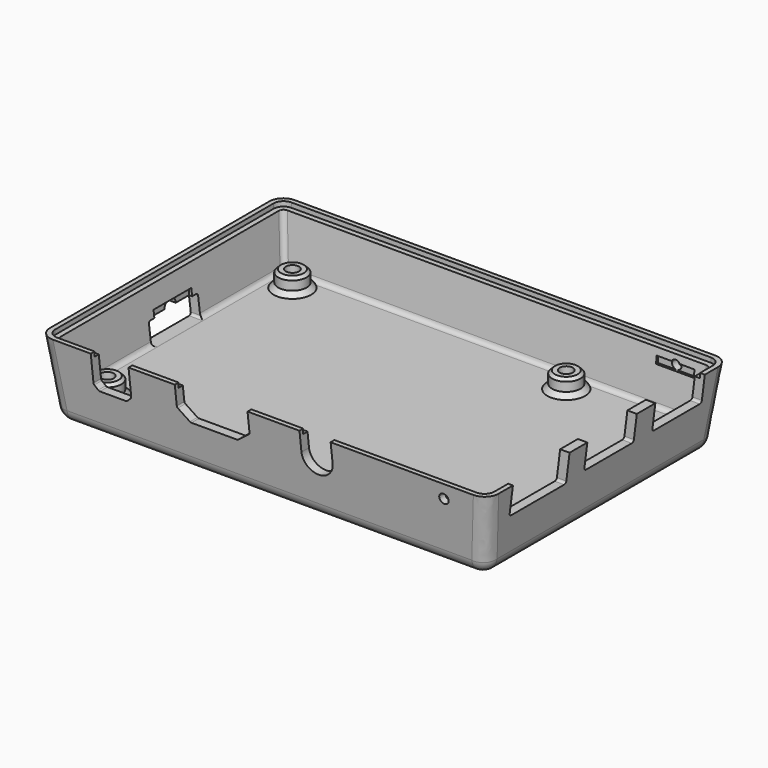
from build123d import *

# Parameters (mm, degrees)
SKETCH_W             = 95
SKETCH_H             = 64
SKETCH001_W          = 91
SKETCH001_H          = 60
SKETCH002_W          = 91
SKETCH002_H          = 60
SKETCH003_W          = 88.13
SKETCH003_H          = 57.13
POCKET_DEPTH         = 1
FILLET_R             = 1
POCKET001_DEPTH      = 47.501
POCKET002_DEPTH      = 47.501
POCKET003_DEPTH      = 32.001
SKETCH008_R          = 3
PAD_DEPTH            = 3.5
SKETCH010_R          = 1.4
HOLE_DEPTH           = 6
HOLE_TIPS_R          = 1.4
SKETCH009_W          = 2.5
SKETCH009_H          = 2.5
POCKET004_DEPTH      = 5
SKETCH011_W          = 60
SKETCH011_H          = 1.5
POCKET005_DEPTH      = 4
SKETCH012_R          = 1
POCKET006_DEPTH      = 32.001
POCKET006_DEPTH_BACK = 32.001
POCKET007_DEPTH      = 2.5
POCKET008_DEPTH      = 1.5
FILLET001_R          = 2.1
FILLET002_R          = 3
CHAMFER_SIZE         = 1
CHAMFER001_SIZE      = 0.6
POCKET013_DEPTH      = 2.5
POCKET014_DEPTH      = 1.5


with BuildPart() as part:
    # Sketch → AdditiveLoft section 0
    with BuildSketch(Plane.XY.offset(16)):
        Rectangle(SKETCH_W, SKETCH_H)
    # Sketch001 → AdditiveLoft section 1
    with BuildSketch(Plane.XY):
        Rectangle(SKETCH001_W, SKETCH001_H)
    loft(ruled=True)

    # Sketch002 → SubtractiveLoft section 0
    with BuildSketch(Plane.XY.offset(16)):
        Rectangle(SKETCH002_W, SKETCH002_H)
    # Sketch003 → SubtractiveLoft section 1
    with BuildSketch(Plane.XY.offset(4.5)):
        Rectangle(SKETCH003_W, SKETCH003_H)
    loft(ruled=True, mode=Mode.SUBTRACT)

    # Sketch004 → Pocket (cut)
    with BuildSketch(Plane.XY.offset(16)):
        Polygon((-46.5, -31), (-46.5, 31), (46.5, 31), (46.5, 22.5), (40.5, 22.5), (40.5, -22.5), (46.5, -22.5), (46.5, -31), align=None)
    extrude(amount=-POCKET_DEPTH, mode=Mode.SUBTRACT)

    # Fillet
    fillet_edges = [part.edges().sort_by_distance(p)[0] for p in [
        (-44.720109, 29.220109, 9.75),
        (-44.065, 0, 4.5),
        (0, 28.565, 4.5),
        (44.720109, 29.220109, 9.75),
        (44.065, 0, 4.5),
        (44.720109, -29.220109, 9.75),
        (0, -28.565, 4.5),
        (-44.720109, -29.220109, 9.75),
    ]]
    fillet(fillet_edges, radius=FILLET_R)

    # Sketch005 → Pocket001 (cut, through all)
    with BuildSketch(Plane.YZ):
        with BuildLine():
            Line((-25.25, 17), (-10.25, 17))
            Line((-10.25, 17), (-10.25, 10.5))
            ThreePointArc((-10.75, 10), (-10.396447, 10.146447), (-10.25, 10.5))
            Line((-10.75, 10), (-24.75, 10))
            ThreePointArc((-25.25, 10.5), (-25.103553, 10.146447), (-24.75, 10))
            Line((-25.25, 10.5), (-25.25, 17))
        make_face()
        with BuildLine():
            Line((-5.55, 17), (7.55, 17))
            Line((7.55, 17), (7.55, 11))
            ThreePointArc((7.05, 10.5), (7.403553, 10.646447), (7.55, 11))
            Line((7.05, 10.5), (-5.05, 10.5))
            ThreePointArc((-5.55, 11), (-5.403553, 10.646447), (-5.05, 10.5))
            Line((-5.55, 11), (-5.55, 17))
        make_face()
        with BuildLine():
            Line((12.45, 17), (25.55, 17))
            Line((25.55, 17), (25.55, 11))
            ThreePointArc((25.05, 10.5), (25.403553, 10.646447), (25.55, 11))
            Line((25.05, 10.5), (12.95, 10.5))
            ThreePointArc((12.45, 11), (12.596447, 10.646447), (12.95, 10.5))
            Line((12.45, 11), (12.45, 17))
        make_face()
    extrude(amount=POCKET001_DEPTH, mode=Mode.SUBTRACT)

    # Sketch006 → Pocket002 (cut, through all)
    with BuildSketch(Plane.YZ):
        with BuildLine():
            Line((6, 9), (1.5, 9))
            ThreePointArc((1.5, 9), (0, 10.5), (-1.5, 9))
            Line((-1.5, 9), (-6, 9))
            ThreePointArc((-6, 9), (-6.353553, 8.853553), (-6.5, 8.5))
            Line((-6.5, 8.5), (-6.5, 5.001))
            ThreePointArc((-6.5, 5.001), (-6.353553, 4.647447), (-6, 4.501))
            Line((-6, 4.501), (6, 4.501))
            ThreePointArc((6, 4.501), (6.353553, 4.647447), (6.5, 5.001))
            Line((6.5, 5.001), (6.5, 8.5))
            ThreePointArc((6.5, 8.5), (6.353553, 8.853553), (6, 9))
        make_face()
    extrude(amount=-POCKET002_DEPTH, mode=Mode.SUBTRACT)

    # Sketch007 → Pocket003 (cut, through all)
    with BuildSketch(Plane.XZ):
        with BuildLine():
            Line((-18.7, 17), (-3.3, 17))
            Line((-3.3, 17), (-3.3, 11.853337))
            ThreePointArc((-3.492169, 11.459332), (-3.350603, 11.634152), (-3.3, 11.853337))
            Line((-3.492169, 11.459332), (-5.864333, 9.605995))
            ThreePointArc((-6.172164, 9.5), (-6.00938, 9.527241), (-5.864333, 9.605995))
            Line((-6.172164, 9.5), (-15.827836, 9.5))
            ThreePointArc((-16.135667, 9.605995), (-15.99062, 9.527241), (-15.827836, 9.5))
            Line((-18.507831, 11.459332), (-16.135667, 9.605995))
            ThreePointArc((-18.7, 11.853337), (-18.649397, 11.634152), (-18.507831, 11.459332))
            Line((-18.7, 11.853337), (-18.7, 17))
        make_face()
        with BuildLine():
            ThreePointArc((7.7, 11.8), (11, 8.5), (14.3, 11.8))
            Line((14.3, 11.8), (14.3, 17))
            Line((14.3, 17), (7.7, 17))
            Line((7.7, 11.8), (7.7, 17))
        make_face()
        with BuildLine():
            Line((-36.5, 17), (-28.5, 17))
            Line((-28.5, 17), (-28.5, 10.25))
            ThreePointArc((-28.646447, 9.896447), (-28.53806, 10.058658), (-28.5, 10.25))
            Line((-29.396447, 9.146447), (-28.646447, 9.896447))
            ThreePointArc((-29.75, 9), (-29.558658, 9.03806), (-29.396447, 9.146447))
            Line((-29.75, 9), (-35.25, 9))
            ThreePointArc((-35.603553, 9.146447), (-35.441342, 9.03806), (-35.25, 9))
            Line((-36.353553, 9.896447), (-35.603553, 9.146447))
            ThreePointArc((-36.5, 10.25), (-36.46194, 10.058658), (-36.353553, 9.896447))
            Line((-36.5, 10.25), (-36.5, 17))
        make_face()
    extrude(amount=POCKET003_DEPTH, mode=Mode.SUBTRACT)

    # Sketch008 → Pad (join)
    with BuildSketch(Plane.XY.offset(4.5)):
        with Locations((-39, -24.5)):
            Circle(SKETCH008_R)
        with Locations((19, -24.5)):
            Circle(SKETCH008_R)
        with Locations((-39, 24.5)):
            Circle(SKETCH008_R)
        with Locations((19, 24.5)):
            Circle(SKETCH008_R)
    extrude(amount=PAD_DEPTH)

    # Sketch010 → Hole (cut)
    with BuildSketch(Plane.XY.offset(8)):
        with Locations((-39, -24.5)):
            Circle(SKETCH010_R)
        with Locations((19, -24.5)):
            Circle(SKETCH010_R)
        with Locations((-39, 24.5)):
            Circle(SKETCH010_R)
        with Locations((19, 24.5)):
            Circle(SKETCH010_R)
    extrude(amount=-HOLE_DEPTH, mode=Mode.SUBTRACT)

    # Hole tips → Hole tip 1 section 0
    with BuildSketch(Plane.XY.offset(2), mode=Mode.PRIVATE) as hole_tip_1_s0:
        with Locations((-39, -24.5)):
            Circle(HOLE_TIPS_R)
    loft([hole_tip_1_s0.sketch, Vertex(-39, -24.5, 1.158795)], mode=Mode.SUBTRACT)

    # Hole tips → Hole tip 2 section 0
    with BuildSketch(Plane.XY.offset(2), mode=Mode.PRIVATE) as hole_tip_2_s0:
        with Locations((19, -24.5)):
            Circle(HOLE_TIPS_R)
    loft([hole_tip_2_s0.sketch, Vertex(19, -24.5, 1.158795)], mode=Mode.SUBTRACT)

    # Hole tips → Hole tip 3 section 0
    with BuildSketch(Plane.XY.offset(2), mode=Mode.PRIVATE) as hole_tip_3_s0:
        with Locations((-39, 24.5)):
            Circle(HOLE_TIPS_R)
    loft([hole_tip_3_s0.sketch, Vertex(-39, 24.5, 1.158795)], mode=Mode.SUBTRACT)

    # Hole tips → Hole tip 4 section 0
    with BuildSketch(Plane.XY.offset(2), mode=Mode.PRIVATE) as hole_tip_4_s0:
        with Locations((19, 24.5)):
            Circle(HOLE_TIPS_R)
    loft([hole_tip_4_s0.sketch, Vertex(19, 24.5, 1.158795)], mode=Mode.SUBTRACT)

    # Sketch009 → Pocket004 (cut, symmetric)
    with BuildSketch(Plane.XZ):
        with Locations((-44.05, 9.25)):
            Rectangle(SKETCH009_W, SKETCH009_H)
    extrude(amount=POCKET004_DEPTH, both=True, mode=Mode.SUBTRACT)

    # Sketch011 → Pocket005 (cut, symmetric)
    with BuildSketch(Plane.YZ.offset(38)):
        with Locations((0, 12.75)):
            Rectangle(SKETCH011_W, SKETCH011_H)
    extrude(amount=POCKET005_DEPTH, both=True, mode=Mode.SUBTRACT)

    # Sketch012 → Pocket006 (cut, two sides)
    with BuildSketch(Plane.XZ) as pocket006_sk:
        with Locations((38, 13)):
            Circle(SKETCH012_R)
    extrude(amount=-POCKET006_DEPTH, mode=Mode.SUBTRACT)
    extrude(pocket006_sk.sketch, amount=POCKET006_DEPTH_BACK, mode=Mode.SUBTRACT)

    # Sketch013 → Pocket007 (cut)
    with BuildSketch(Plane.XY.offset(1.2)):
        with BuildLine():
            ThreePointArc((-4, 24), (-8, 20), (-4, 16))
            Line((-4, 16), (4, 16))
            ThreePointArc((4, 16), (8, 20), (4, 24))
            Line((4, 24), (-4, 24))
        make_face()
        with BuildLine():
            ThreePointArc((-4, -16), (-8, -20), (-4, -24))
            Line((-4, -24), (4, -24))
            ThreePointArc((4, -24), (8, -20), (4, -16))
            Line((4, -16), (-4, -16))
        make_face()
    extrude(amount=POCKET007_DEPTH, mode=Mode.SUBTRACT)

    # Sketch014 → Pocket008 (cut)
    with BuildSketch(Plane.XY):
        with BuildLine():
            ThreePointArc((4, 16), (8, 20), (4, 24))
            Line((4, 24), (0, 24))
            Line((0, 24), (0, 21.8))
            Line((0, 21.8), (-4, 21.8))
            ThreePointArc((-4, 21.8), (-5.8, 20), (-4, 18.2))
            Line((-4, 18.2), (0, 18.2))
            Line((0, 18.2), (0, 16))
            Line((0, 16), (4, 16))
        make_face()
        with BuildLine():
            ThreePointArc((4, -24), (8, -20), (4, -16))
            Line((0, -16), (4, -16))
            Line((0, -18.2), (0, -16))
            Line((-4, -18.2), (0, -18.2))
            ThreePointArc((-4, -18.2), (-5.8, -20), (-4, -21.8))
            Line((-4, -21.8), (0, -21.8))
            Line((0, -21.8), (0, -24))
            Line((0, -24), (4, -24))
        make_face()
    extrude(amount=POCKET008_DEPTH, mode=Mode.SUBTRACT)

    # Fillet001
    fillet001_edges = [part.edges().sort_by_distance(p)[0] for p in [
        (-46.5, -31, 15.5),
        (-46.5, 31, 15.5),
        (46.5, 31, 15.5),
        (46.5, -31, 15.5),
    ]]
    fillet(fillet001_edges, radius=FILLET001_R)

    # Fillet002
    fillet002_edges = [part.edges().sort_by_distance(p)[0] for p in [
        (-46.5, -31, 8),
        (-45.5, 0, 0),
        (-46.5, 31, 8),
        (0, -30, 0),
        (0, 30, 0),
        (46.5, -31, 8),
        (45.5, 0, 0),
        (46.5, 31, 8),
    ]]
    fillet(fillet002_edges, radius=FILLET002_R)

    # Chamfer
    chamfer_edges = [part.edges().sort_by_distance(p)[0] for p in [
        (-42, 24.5, 4.5),
        (16, 24.5, 4.5),
        (16, -24.5, 4.5),
        (-42, -24.5, 4.5),
    ]]
    chamfer(chamfer_edges, length=CHAMFER_SIZE)

    # Chamfer001
    chamfer001_edges = [part.edges().sort_by_distance(p)[0] for p in [
        (-42, 24.5, 8),
        (16, 24.5, 8),
        (16, -24.5, 8),
        (-42, -24.5, 8),
    ]]
    chamfer(chamfer001_edges, length=CHAMFER001_SIZE)

    # Sketch028 → Pocket013 (cut)
    with BuildSketch(Plane.XY.offset(1.2)):
        with BuildLine():
            ThreePointArc((24, 8), (20, 12), (16, 8))
            Line((16, 8), (16, -8))
            ThreePointArc((16, -8), (20, -12), (24, -8))
            Line((24, -8), (24, 8))
        make_face()
        with BuildLine():
            ThreePointArc((-16, 8), (-20, 12), (-24, 8))
            Line((-24, 8), (-24, -8))
            ThreePointArc((-24, -8), (-20, -12), (-16, -8))
            Line((-16, -8), (-16, 8))
        make_face()
    extrude(amount=POCKET013_DEPTH, mode=Mode.SUBTRACT)

    # Sketch029 → Pocket014 (cut)
    with BuildSketch(Plane.XY):
        with BuildLine():
            Line((-24, 4), (-21.8, 4))
            Line((-21.8, 8), (-21.8, 4))
            ThreePointArc((-18.2, 8), (-20, 9.8), (-21.8, 8))
            Line((-18.2, 4), (-18.2, 8))
            Line((-18.2, 4), (-16, 4))
            Line((-16, 4), (-16, -4))
            Line((-16, -4), (-18.2, -4))
            Line((-18.2, -8), (-18.2, -4))
            ThreePointArc((-21.8, -8), (-20, -9.8), (-18.2, -8))
            Line((-21.8, -4), (-21.8, -8))
            Line((-21.8, -4), (-24, -4))
            Line((-24, -4), (-24, 4))
        make_face()
        with BuildLine():
            Line((16, 4), (18.2, 4))
            Line((18.2, 8), (18.2, 4))
            ThreePointArc((21.8, 8), (20, 9.8), (18.2, 8))
            Line((21.8, 4), (21.8, 8))
            Line((21.8, 4), (24, 4))
            Line((24, 4), (24, -4))
            Line((24, -4), (21.8, -4))
            Line((21.8, -8), (21.8, -4))
            ThreePointArc((18.2, -8), (20, -9.8), (21.8, -8))
            Line((18.2, -4), (18.2, -8))
            Line((18.2, -4), (16, -4))
            Line((16, -4), (16, 4))
        make_face()
    extrude(amount=POCKET014_DEPTH, mode=Mode.SUBTRACT)


solid = part.part
